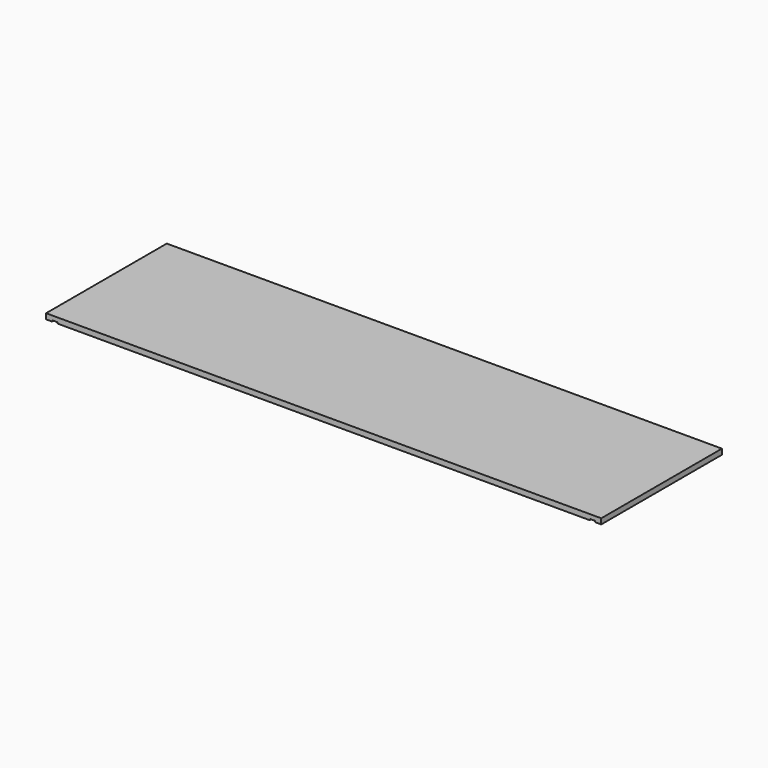
from build123d import *

# Parameters (mm, degrees)
F1_W     = 20
F1_H     = 500
F1_W_2   = 18
F1_W_3   = 752
F1_H_2   = 431.6755512357
F2_DEPTH = 18
F3_DEPTH = 4


with BuildPart() as f2:
    # F1 (on Top) → F2 (new body)
    with BuildSketch(Plane.XY):
        with Locations((10, 250)):
            Rectangle(F1_W, F1_H)
        with Locations((29, 250)):
            Rectangle(F1_W_2, F1_H)
        Polygon((38, 500), (38, 0), (1802, 0), (1802, 500), (1702, 500), (1702, 68.3244487643), (1702, 48.3244487643), (138, 48.3244487643), (138, 68.3244487643), (138, 500), align=None)
        with Locations((1811, 250)):
            Rectangle(F1_W_2, F1_H)
        Polygon((158, 500), (138, 500), (138, 68.3244487643), (138, 48.3244487643), (1702, 48.3244487643), (1702, 68.3244487643), (1702, 500), (1682, 500), (1682, 68.3244487643), (930, 68.3244487643), (930, 500), (910, 500), (910, 384.1622243822), (810, 384.1622243822), (810, 284.1622243822), (910, 284.1622243822), (910, 68.3244487643), (158, 68.3244487643), align=None)
        with Locations((1830, 250)):
            Rectangle(F1_W, F1_H)
        Polygon((910, 500), (158, 500), (158, 68.3244487643), (910, 68.3244487643), (910, 284.1622243822), (810, 284.1622243822), (810, 384.1622243822), (910, 384.1622243822), align=None)
        with Locations((1306, 284.1622243822)):
            Rectangle(F1_W_3, F1_H_2)
    extrude(amount=F2_DEPTH)

    # F1 (on Top) → F3 (cut)
    with BuildSketch(Plane.XY):
        Polygon((158, 500), (138, 500), (138, 68.3244487643), (138, 48.3244487643), (1702, 48.3244487643), (1702, 68.3244487643), (1702, 500), (1682, 500), (1682, 68.3244487643), (930, 68.3244487643), (930, 500), (910, 500), (910, 384.1622243822), (810, 384.1622243822), (810, 284.1622243822), (910, 284.1622243822), (910, 68.3244487643), (158, 68.3244487643), align=None)
        with Locations((29, 250)):
            Rectangle(F1_W_2, F1_H)
        with Locations((1811, 250)):
            Rectangle(F1_W_2, F1_H)
    extrude(amount=F3_DEPTH, mode=Mode.SUBTRACT)


solid = f2.part
